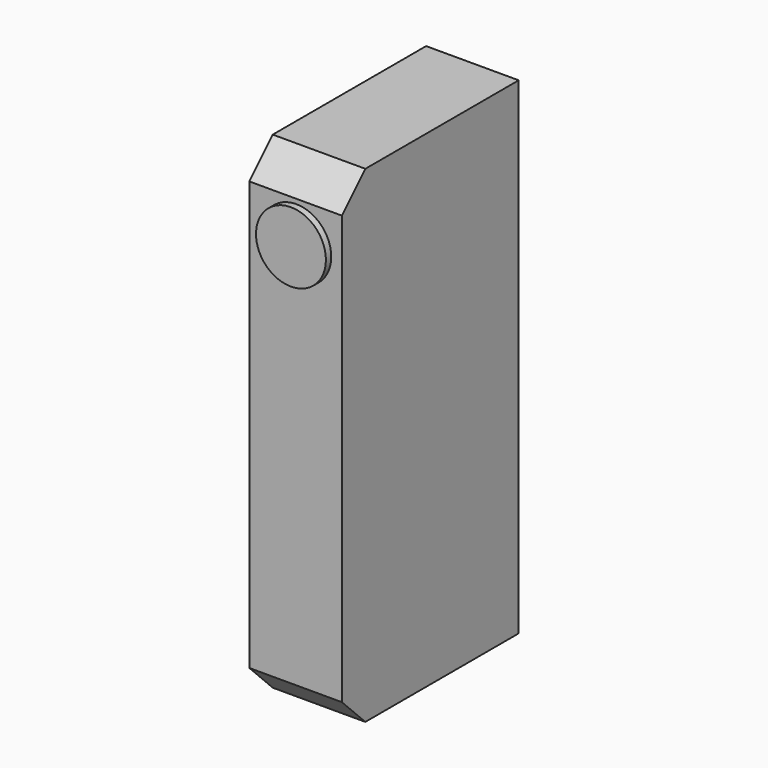
from build123d import *

# Parameters (mm, degrees)
F0_W     = 14.444813
F0_H     = 75.975604
F1_DEPTH = 34.479829
F2_R     = 5.454239
F3_DEPTH = 1.041855
F4_SIZE  = 4.572


with BuildPart() as f1:
    # F0 (on Front) → F1 (new body)
    with BuildSketch(Plane.XZ):
        with Locations((7.222406, 37.987802)):
            Rectangle(F0_W, F0_H)
    extrude(amount=-F1_DEPTH)

    # F2 (on face) → F3 (join)
    with BuildSketch(Plane.XZ):
        with Locations((7.329378, 65.214992)):
            Circle(F2_R)
    extrude(amount=F3_DEPTH)

    # F4
    f4_edges = [f1.edges().sort_by_distance(p)[0] for p in [
        (7.222407, 0, 75.975604),
        (7.222407, 0, 0),
    ]]
    chamfer(f4_edges, length=F4_SIZE)


solid = f1.part
